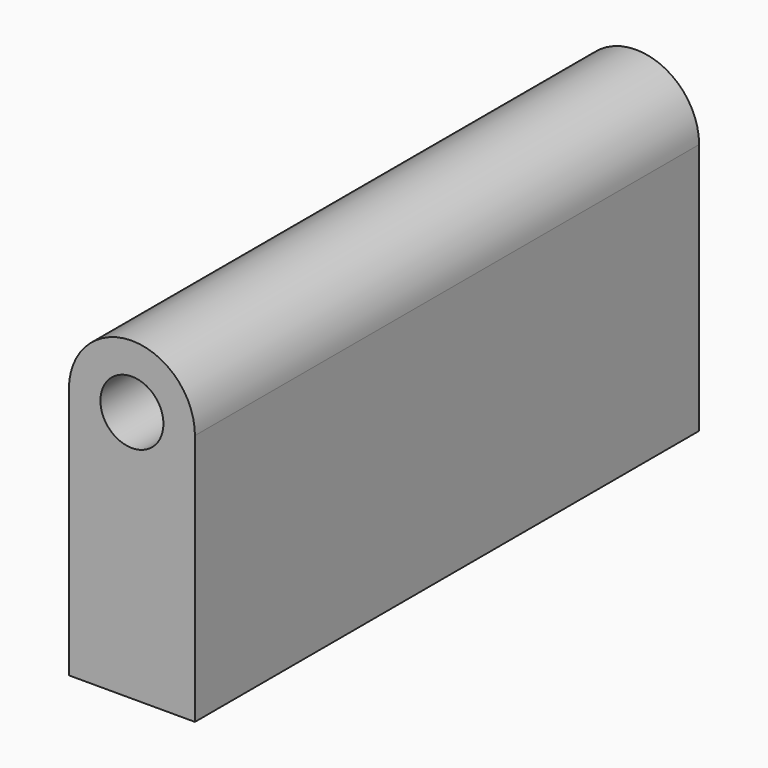
from build123d import *

# Parameters (mm, degrees)
F0_R     = 0.25
F1_DEPTH = 5


with BuildPart() as f1:
    # F0 (on Front) → F1 (new body)
    with BuildSketch(Plane.XZ):
        with BuildLine():
            ThreePointArc((0.5, 0), (0, 0.5), (-0.5, 0))
            Line((-0.5, 0), (-0.5, -2))
            Line((-0.5, -2), (0.5, -2))
            Line((0.5, -2), (0.5, 0))
        make_face()
        Circle(F0_R, mode=Mode.SUBTRACT)
    extrude(amount=F1_DEPTH)


solid = f1.part
